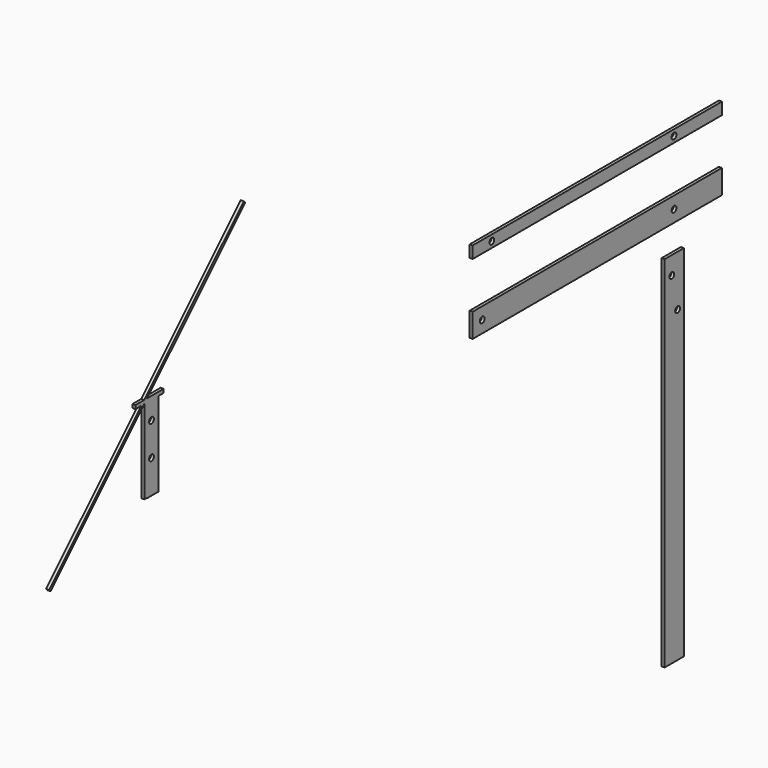
from build123d import *

# Parameters (mm, degrees)
F0_W     = 25.4
F0_H     = 381
F0_R     = 3.175
F1_DEPTH = 3.175
F2_W     = 330.2
F2_H     = 25.4
F2_R     = 3.175
F3_DEPTH = 3.175
F2_H_2   = 12.7
F2_W_2   = 15.3272473817
F2_H_3   = 0.3989635468


with BuildPart() as f1:
    # F0 (on Right) → F1 (new body)
    with BuildSketch(Plane.YZ):
        with Locations((42.3107426614, 56.5074968708)):
            Rectangle(F0_W, F0_H)
        with Locations((39.1357426614, 227.9574968708)):
            Circle(F0_R, mode=Mode.SUBTRACT)
        with Locations((46.7557426614, 193.0324968708)):
            Circle(F0_R, mode=Mode.SUBTRACT)
    extrude(amount=F1_DEPTH)


with BuildPart() as f3:
    # F2 (on Right) → F3 (new body)
    with BuildSketch(Plane.YZ):
        with Locations((-59.6037783384, 288.6731931647)):
            Rectangle(F2_W, F2_H)
        with Locations((-212.0037783384, 288.6731931647)):
            Circle(F2_R, mode=Mode.SUBTRACT)
        with Locations((41.9962216616, 288.6731931647)):
            Circle(F2_R, mode=Mode.SUBTRACT)
    extrude(amount=F3_DEPTH)


with BuildPart() as f3b:
    # F2 (on Right) → F3, piece 2 (new body)
    with BuildSketch(Plane.YZ):
        with Locations((-59.6037783384, 356.8920088768)):
            Rectangle(F2_W, F2_H_2)
        with Locations((-199.3037783384, 356.8920088768)):
            Circle(F2_R, mode=Mode.SUBTRACT)
        with Locations((41.9962216616, 356.8920088768)):
            Circle(F2_R, mode=Mode.SUBTRACT)
    extrude(amount=F3_DEPTH)


with BuildPart() as f3c:
    # F2 (on Right) → F3, piece 3 (new body)
    with BuildSketch(Plane.YZ):
        Polygon((-655.9261690166, 395.89759154), (-659.8005547995, 392.0232057571), (-640.7505547995, 392.0232057571), (-634.0945363045, 392.0232057571), (-634.0945363045, 395.89759154), align=None)
        Polygon((-640.7505547995, 392.0232057571), (-659.8005547995, 392.0232057571), (-659.8005547995, 303.1232057571), (-656.0778021812, 303.1232057571), (-640.7505547995, 303.1232057571), align=None)
        with Locations((-650.2755547995, 338.0482057571)):
            Circle(F2_R, mode=Mode.SUBTRACT)
        with Locations((-650.2755547995, 372.9732057571)):
            Circle(F2_R, mode=Mode.SUBTRACT)
        Polygon((-783.9779704112, 267.8457901454), (-659.8005547995, 392.0232057571), (-663.6749405824, 392.0232057571), (-785.9151633027, 269.7829830368), align=None)
        Polygon((-663.6749405824, 392.0232057571), (-659.8005547995, 392.0232057571), (-659.8005547995, 395.89759154), align=None)
        Polygon((-659.8005547995, 395.89759154), (-659.8005547995, 392.0232057571), (-655.9261690166, 395.89759154), align=None)
        Polygon((-671.4555621147, 392.0232057571), (-663.6749405824, 392.0232057571), (-659.8005547995, 395.89759154), (-671.4555621147, 395.89759154), align=None)
        Polygon((-527.998517998, 527.6996283415), (-659.8005547995, 395.89759154), (-655.9261690166, 395.89759154), (-526.0613251066, 525.7624354501), align=None)
        with Locations((-648.4141784904, 302.9237239838)):
            Rectangle(F2_W_2, F2_H_3)
    extrude(amount=F3_DEPTH)


solid = Compound([f1.part, f3.part, f3b.part, f3c.part])
